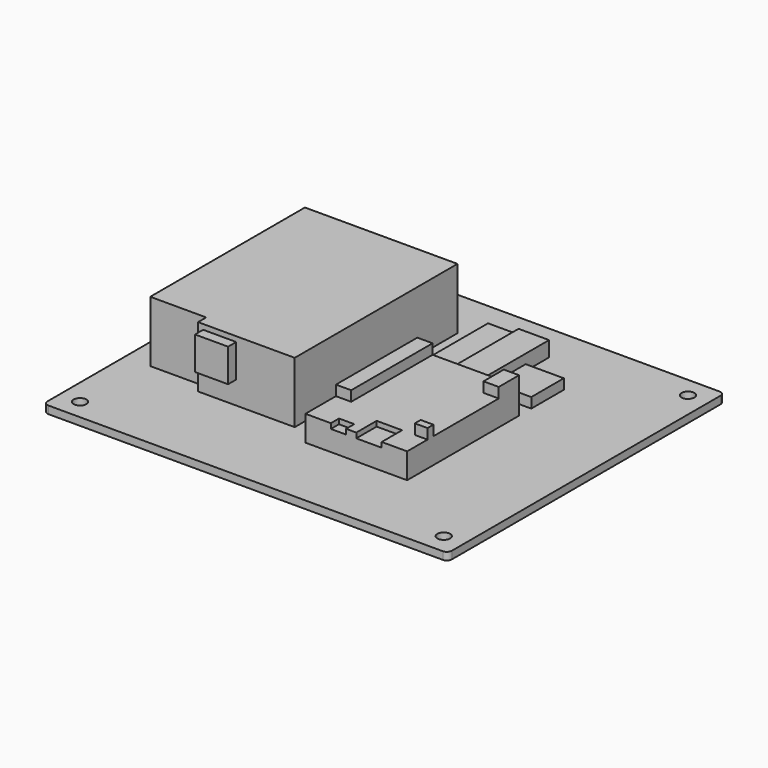
from build123d import *

# Parameters (mm, degrees)
F0_R      = 3.175
F1_DEPTH  = 3.81
F3_DEPTH  = 30.48
F2_W      = 50.8
F2_H      = 69.85
F4_DEPTH  = 12.7
F2_W_2    = 19.05
F2_H_2    = 20.32
F5_DEPTH  = 5.08
F2_W_3    = 15.24
F2_H_3    = 38.1
F6_DEPTH  = 7.62
F2_W_4    = 12.7
F7_DEPTH  = 5.08
F8_W      = 16.51
F8_H      = 16.51
F9_DEPTH  = 5.08
F10_W     = 7.62
F10_H     = 2.54
F11_DEPTH = 2.54
F12_W     = 7.62
F12_H     = 12.7
F12_H_2   = 50.8
F13_DEPTH = 5.08
F14_W     = 6.35
F14_H     = 3.679095
F15_DEPTH = 5.08
F16_W     = 12.7
F16_H     = 12.7
F17_DEPTH = 2.54
F18_W     = 7.62
F18_H     = 5.08
F19_DEPTH = 2.54


with BuildPart() as f1:
    # F0 (on Top) → F1 (new body)
    with BuildSketch(Plane.XY):
        with BuildLine():
            Line((98.080416, 92.946989), (-98.769584, 92.946989))
            ThreePointArc((-98.769584, 92.946989), (-100.565635, 92.20304), (-101.309584, 90.406989))
            Line((-101.309584, 90.406989), (-101.309584, -77.233011))
            ThreePointArc((-101.309584, -77.233011), (-100.565635, -79.029062), (-98.769584, -79.773011))
            Line((-98.769584, -79.773011), (98.080416, -79.773011))
            ThreePointArc((98.080416, -79.773011), (99.876467, -79.029062), (100.620416, -77.233011))
            Line((100.620416, -77.233011), (100.620416, 90.406989))
            ThreePointArc((100.620416, 90.406989), (99.876467, 92.20304), (98.080416, 92.946989))
        make_face()
        with Locations((-91.149584, -69.613011)):
            Circle(F0_R, mode=Mode.SUBTRACT)
        with Locations((90.460416, -69.613011)):
            Circle(F0_R, mode=Mode.SUBTRACT)
        with Locations((-91.149584, 82.786989)):
            Circle(F0_R, mode=Mode.SUBTRACT)
        with Locations((90.460416, 82.786989)):
            Circle(F0_R, mode=Mode.SUBTRACT)
    extrude(amount=F1_DEPTH)

    # F2 (on face) → F3 (join)
    with BuildSketch(Plane.XY.offset(3.81)):
        Polygon((-12.409584, 67.546989), (-88.609584, 67.546989), (-88.609584, -28.973011), (-60.669584, -28.973011), (-60.669584, -34.053011), (-12.409584, -34.053011), align=None)
    extrude(amount=F3_DEPTH)

    # F2 (on face) → F4 (join)
    with BuildSketch(Plane.XY.offset(3.81)):
        with Locations((24.420416, -6.748011)):
            Rectangle(F2_W, F2_H)
    extrude(amount=F4_DEPTH)

    # F2 (on face) → F5 (join)
    with BuildSketch(Plane.XY.offset(3.81)):
        with Locations((40.295416, 45.956989)):
            Rectangle(F2_W_2, F2_H_2)
    extrude(amount=F5_DEPTH)

    # F2 (on face) → F6 (join)
    with BuildSketch(Plane.XY.offset(3.81)):
        with Locations((20.610416, 54.846989)):
            Rectangle(F2_W_3, F2_H_3)
    extrude(amount=F6_DEPTH)

    # F2 (on face) → F7 (join)
    with BuildSketch(Plane.XY.offset(3.81)):
        with Locations((4.100416, 54.846989)):
            Rectangle(F2_W_4, F2_H_3)
    extrude(amount=F7_DEPTH)

    # F8 (on face) → F9 (join)
    with BuildSketch(Plane.XZ.offset(34.053011)):
        with Locations((-49.874584, 23.495)):
            Rectangle(F8_W, F8_H)
    extrude(amount=F9_DEPTH)

    # F10 (on face) → F11 (join)
    with BuildSketch(Plane(origin=(0, 67.546989, 0), x_dir=(-1, 0, 0), z_dir=(0, 1, 0))):
        with Locations((77.179584, 15.24)):
            Rectangle(F10_W, F10_H)
    extrude(amount=F11_DEPTH)

    # F12 (on face) → F13 (join)
    with BuildSketch(Plane.XY.offset(16.51)):
        with Locations((46.010416, 21.826989)):
            Rectangle(F12_W, F12_H)
        with Locations((2.830416, 2.776989)):
            Rectangle(F12_W, F12_H_2)
    extrude(amount=F13_DEPTH)

    # F14 (on face) → F15 (join)
    with BuildSketch(Plane.XY.offset(16.51)):
        with Locations((46.645416, -27.133463)):
            Rectangle(F14_W, F14_H)
    extrude(amount=F15_DEPTH)

    # F16 (on face) → F17 (cut)
    with BuildSketch(Plane.XY.offset(16.51)):
        with Locations((30.770416, -35.323011)):
            Rectangle(F16_W, F16_H)
    extrude(amount=-F17_DEPTH, mode=Mode.SUBTRACT)

    # F18 (on face) → F19 (cut)
    with BuildSketch(Plane.XY.offset(16.51)):
        with Locations((15.530416, -39.133011)):
            Rectangle(F18_W, F18_H)
    extrude(amount=-F19_DEPTH, mode=Mode.SUBTRACT)


solid = f1.part
